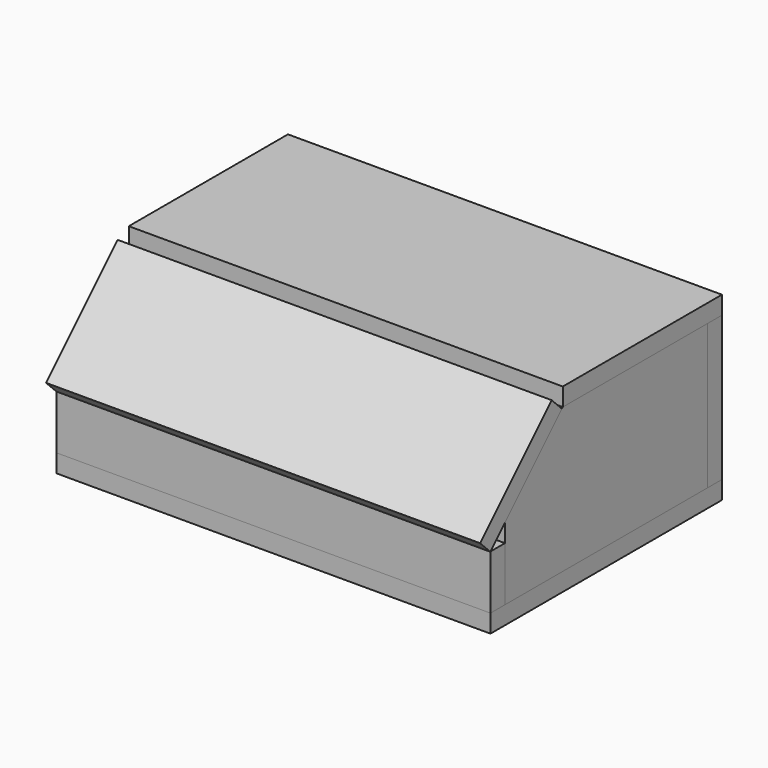
from build123d import *

# Parameters (mm, degrees)
SKETCH_W     = 120
SKETCH_H     = 80
PAD_DEPTH    = 5
SKETCH001_W  = 120
SKETCH001_H  = 15
PAD001_DEPTH = 5
SKETCH002_W  = 120
SKETCH002_H  = 40
PAD002_DEPTH = 5
PAD003_DEPTH = 5
SKETCH004_W  = 120
SKETCH004_H  = 35
PAD004_DEPTH = 5
SKETCH005_W  = 120
SKETCH005_H  = 55
PAD005_DEPTH = 5


with BuildPart() as pad:
    # Sketch → Pad (new body)
    with BuildSketch(Plane.XY):
        with Locations((0, 10)):
            Rectangle(SKETCH_W, SKETCH_H)
    extrude(amount=PAD_DEPTH)


with BuildPart() as pad001:
    # Sketch001 → Pad001 (new body)
    with BuildSketch(Plane.XZ.offset(25)):
        with Locations((0, 12.5)):
            Rectangle(SKETCH001_W, SKETCH001_H)
    extrude(amount=PAD001_DEPTH)


with BuildPart() as pad002:
    # Sketch002 → Pad002 (new body)
    with BuildSketch(Plane.XZ.offset(-50)):
        with Locations((0, 25)):
            Rectangle(SKETCH002_W, SKETCH002_H)
    extrude(amount=PAD002_DEPTH)


with BuildPart() as pad003:
    # Sketch003 → Pad003 (new body)
    with BuildSketch(Plane.YZ.offset(55)):
        Polygon((45, 45), (45, 5), (-25, 5), (-25, 25), (-5, 45), align=None)
    extrude(amount=PAD003_DEPTH)


with BuildPart() as clone_of_pad003:
    # Clone base: copy of Pad003
    add(pad003.part)


with BuildPart() as clone_of_pad003_1:
    # Clone placement: moved
    add(clone_of_pad003.part.moved(Location((-115, 0, 0))))


with BuildPart() as pad004:
    # Sketch004 → Pad004 (new body)
    with BuildSketch(Plane(origin=(0, 0, 50), x_dir=(1, 0, 0), z_dir=(0, -0.707107, 0.707107))):
        with Locations((0, -25)):
            Rectangle(SKETCH004_W, SKETCH004_H)
    extrude(amount=PAD004_DEPTH)


with BuildPart() as pad005:
    # Sketch005 → Pad005 (new body)
    with BuildSketch(Plane.XY.offset(45)):
        with Locations((0, 22.5)):
            Rectangle(SKETCH005_W, SKETCH005_H)
    extrude(amount=PAD005_DEPTH)


solid = Compound([pad.part, pad001.part, pad002.part, pad003.part, clone_of_pad003_1.part, pad004.part, pad005.part])
